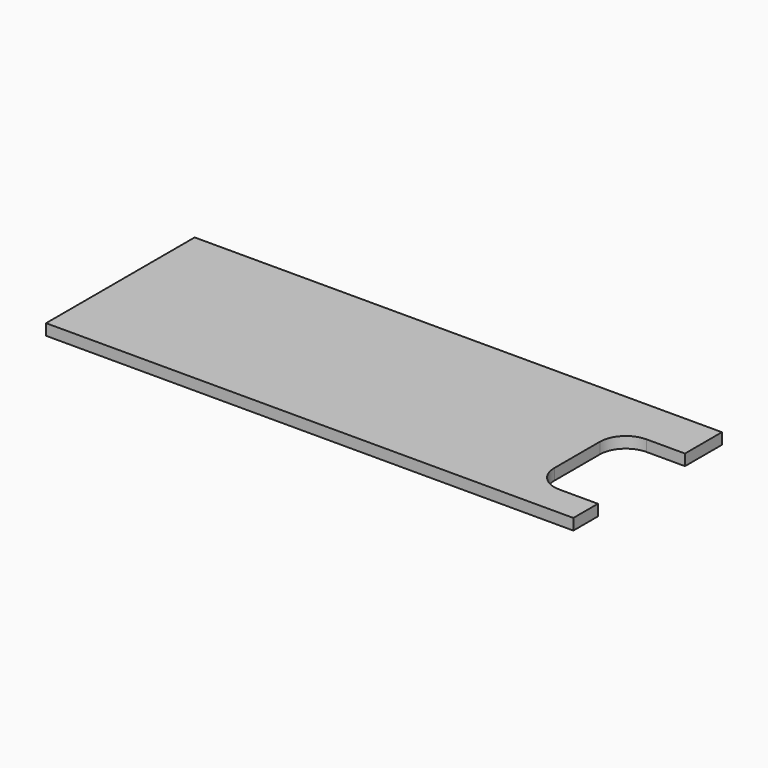
from build123d import *

# Parameters (mm, degrees)
F0_W     = 635
F0_H     = 38.1
F1_DEPTH = 1803
F2_W     = 220
F2_H     = 372
F3_DEPTH = 38.101
F4_R     = 88.9


with BuildPart() as f1:
    # F0 (on Right) → F1 (new body)
    with BuildSketch(Plane.YZ):
        with Locations((317.5, 19.05)):
            Rectangle(F0_W, F0_H)
    extrude(amount=F1_DEPTH)

    # F2 (on Top) → F3 (cut, through all)
    with BuildSketch(Plane.XY):
        with Locations((1693, 291)):
            Rectangle(F2_W, F2_H)
    extrude(amount=F3_DEPTH, mode=Mode.SUBTRACT)

    # F4
    f4_edges = [f1.edges().sort_by_distance(p)[0] for p in [
        (1583, 477, 19.05),
        (1583, 105, 19.05),
    ]]
    fillet(f4_edges, radius=F4_R)


solid = f1.part
